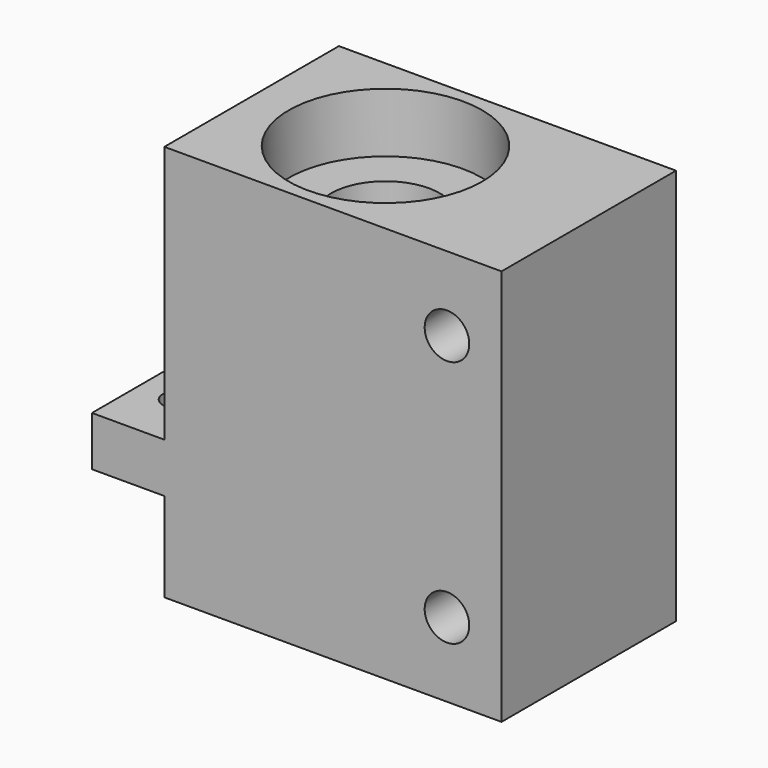
from build123d import *

# Parameters (mm, degrees)
PAD033_DEPTH            = 11
SKETCH055_R             = 9.75
POCKET014_DEPTH         = 6
SKETCH056_R             = 5.5
POCKET015_DEPTH         = 40
SKETCH057_R             = 9.75
POCKET016_DEPTH         = 6
SKETCH058_R             = 2.25
POCKET017_DEPTH         = 25
SKETCH059_R             = 1.5
POCKET018_DEPTH         = 5
BODY047_PLACEMENT_ANGLE = 180


with BuildPart() as part:
    # Sketch054 → Pad033 (new body, symmetric)
    with BuildSketch(Plane.XZ):
        Polygon((-20.5, 40), (-20.5, 0), (13.5, 0), (13.5, 9), (20.8, 9), (20.8, 14), (13.5, 14), (13.5, 40), align=None)
    extrude(amount=PAD033_DEPTH, both=True)

    # Sketch055 (on Face2 of Pad033) → Pocket014 (cut)
    with BuildSketch(Plane(origin=(0, 0, 0), x_dir=(1, 0, 0), z_dir=(0, 0, -1))):
        Circle(SKETCH055_R)
    extrude(amount=-POCKET014_DEPTH, mode=Mode.SUBTRACT)

    # Sketch056 (on Face12 of Pocket014) → Pocket015 (cut)
    with BuildSketch(Plane(origin=(0, 0, 6), x_dir=(1, 0, 0), z_dir=(0, 0, -1))):
        Circle(SKETCH056_R)
    extrude(amount=-POCKET015_DEPTH, mode=Mode.SUBTRACT)

    # Sketch057 (on Face2 of Pocket015) → Pocket016 (cut)
    with BuildSketch(Plane(origin=(0, 0, 40), x_dir=(-1, 0, 0), z_dir=(0, 0, 1))):
        Circle(SKETCH057_R)
    extrude(amount=-POCKET016_DEPTH, mode=Mode.SUBTRACT)

    # Sketch058 (on Face5 of Pocket016) → Pocket017 (cut)
    with BuildSketch(Plane.XZ.offset(11)):
        with Locations((-15, 32.5)):
            Circle(SKETCH058_R)
        with Locations((-15, 7.5)):
            Circle(SKETCH058_R)
    extrude(amount=-POCKET017_DEPTH, mode=Mode.SUBTRACT)

    # Sketch059 (on Face11 of Pocket017) → Pocket018 (cut)
    with BuildSketch(Plane(origin=(0, 0, 9), x_dir=(1, 0, 0), z_dir=(0, 0, -1))):
        with Locations((16.95, 5)):
            Circle(SKETCH059_R)
        with Locations((16.95, -5)):
            Circle(SKETCH059_R)
    extrude(amount=-POCKET018_DEPTH, mode=Mode.SUBTRACT)


with BuildPart() as part_1:
    # Body019 placement: moved
    add(part.part.moved(Location((-100, 0, 81))))


with BuildPart() as part_2:
    # Body047 placement: moved
    add(part_1.part.rotate(Axis((0, 0, 0), (0, 0, 1)), BODY047_PLACEMENT_ANGLE))


solid = part_2.part
